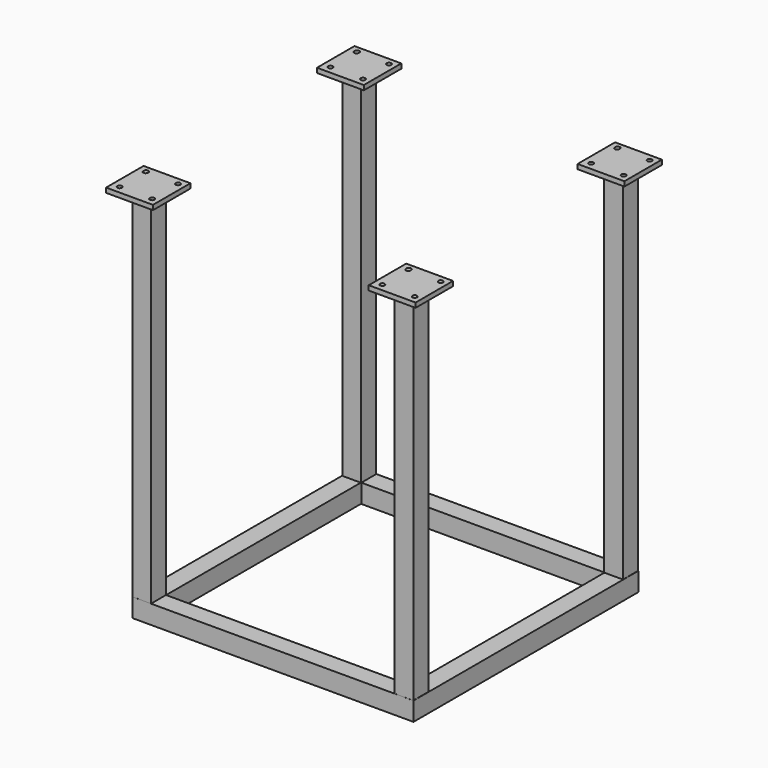
from build123d import *

# Parameters (mm, degrees)
F0_W     = 600
F0_H     = 600
F0_W_2   = 520
F0_H_2   = 520
F1_DEPTH = 40
F2_W     = 40
F2_H     = 40
F3_DEPTH = 800
F4_W     = 100
F4_H     = 100
F4_R     = 5
F5_DEPTH = 10


with BuildPart() as f1:
    # F0 (on Top) → F1 (new body)
    with BuildSketch(Plane.XY):
        with Locations((-742.534351, -349.912536)):
            Rectangle(F0_W, F0_H)
        with Locations((-742.534351, -349.912536)):
            Rectangle(F0_W_2, F0_H_2, mode=Mode.SUBTRACT)
    extrude(amount=F1_DEPTH)

    # F2 (on Top) → F3 (join)
    with BuildSketch(Plane.XY):
        with Locations((-462.971604, -70.520664)):
            Rectangle(F2_W, F2_H)
        with Locations((-1021.841088, -70.520664)):
            Rectangle(F2_W, F2_H)
        with Locations((-462.971604, -629.829387)):
            Rectangle(F2_W, F2_H)
        with Locations((-1022.782568, -629.829387)):
            Rectangle(F2_W, F2_H)
    extrude(amount=F3_DEPTH)

    # F4 (on face) → F5 (join)
    with BuildSketch(Plane.XY.offset(800)):
        with Locations((-1021.178722, -71.567007)):
            Rectangle(F4_W, F4_H)
        with Locations((-1055.047035, -105.544642)):
            Circle(F4_R, mode=Mode.SUBTRACT)
        with Locations((-985.77106, -105.544642)):
            Circle(F4_R, mode=Mode.SUBTRACT)
        with BuildLine():
            ThreePointArc((-1059.987431, -35.498975), (-1055.433054, -29.744166), (-1050.047035, -34.729242))
            ThreePointArc((-1050.047035, -34.729242), (-1050.061959, -35.115261), (-1050.106639, -35.498975))
            ThreePointArc((-1050.106639, -35.498975), (-1050.061959, -35.882689), (-1050.047035, -36.268707))
            ThreePointArc((-1050.047035, -36.268707), (-1055.433054, -41.253784), (-1059.987431, -35.498975))
        make_face(mode=Mode.SUBTRACT)
        with Locations((-985.77106, -36.268707)):
            Circle(F4_R, mode=Mode.SUBTRACT)
        with Locations((-465.089649, -71.444585)):
            Rectangle(F4_W, F4_H)
        with Locations((-498.957962, -105.42222)):
            Circle(F4_R, mode=Mode.SUBTRACT)
        with Locations((-429.681987, -105.42222)):
            Circle(F4_R, mode=Mode.SUBTRACT)
        with BuildLine():
            ThreePointArc((-503.898358, -35.376553), (-499.34398, -29.621744), (-493.957962, -34.606821))
            ThreePointArc((-493.957962, -34.606821), (-493.972885, -34.992839), (-494.017566, -35.376553))
            ThreePointArc((-494.017566, -35.376553), (-493.972885, -35.760268), (-493.957962, -36.146286))
            ThreePointArc((-493.957962, -36.146286), (-499.34398, -41.131363), (-503.898358, -35.376553))
        make_face(mode=Mode.SUBTRACT)
        with Locations((-429.681987, -36.146286)):
            Circle(F4_R, mode=Mode.SUBTRACT)
        with Locations((-463.392437, -630.738995)):
            Rectangle(F4_W, F4_H)
        with Locations((-497.260749, -664.71663)):
            Circle(F4_R, mode=Mode.SUBTRACT)
        with Locations((-427.984774, -664.71663)):
            Circle(F4_R, mode=Mode.SUBTRACT)
        with BuildLine():
            ThreePointArc((-502.201145, -594.670963), (-497.646768, -588.916154), (-492.260749, -593.901231))
            ThreePointArc((-492.260749, -593.901231), (-492.275673, -594.287249), (-492.320353, -594.670963))
            ThreePointArc((-492.320353, -594.670963), (-492.275673, -595.054678), (-492.260749, -595.440696))
            ThreePointArc((-492.260749, -595.440696), (-497.646768, -600.425773), (-502.201145, -594.670963))
        make_face(mode=Mode.SUBTRACT)
        with Locations((-427.984774, -595.440696)):
            Circle(F4_R, mode=Mode.SUBTRACT)
        with Locations((-1025.430679, -628.908239)):
            Rectangle(F4_W, F4_H)
        with Locations((-1059.298992, -662.885874)):
            Circle(F4_R, mode=Mode.SUBTRACT)
        with Locations((-990.023017, -662.885874)):
            Circle(F4_R, mode=Mode.SUBTRACT)
        with BuildLine():
            ThreePointArc((-1064.239388, -592.840207), (-1059.685011, -587.085398), (-1054.298992, -592.070474))
            ThreePointArc((-1054.298992, -592.070474), (-1054.313915, -592.456493), (-1054.358596, -592.840207))
            ThreePointArc((-1054.358596, -592.840207), (-1054.313915, -593.223921), (-1054.298992, -593.609939))
            ThreePointArc((-1054.298992, -593.609939), (-1059.685011, -598.595016), (-1064.239388, -592.840207))
        make_face(mode=Mode.SUBTRACT)
        with Locations((-990.023017, -593.609939)):
            Circle(F4_R, mode=Mode.SUBTRACT)
    extrude(amount=F5_DEPTH)


solid = f1.part
